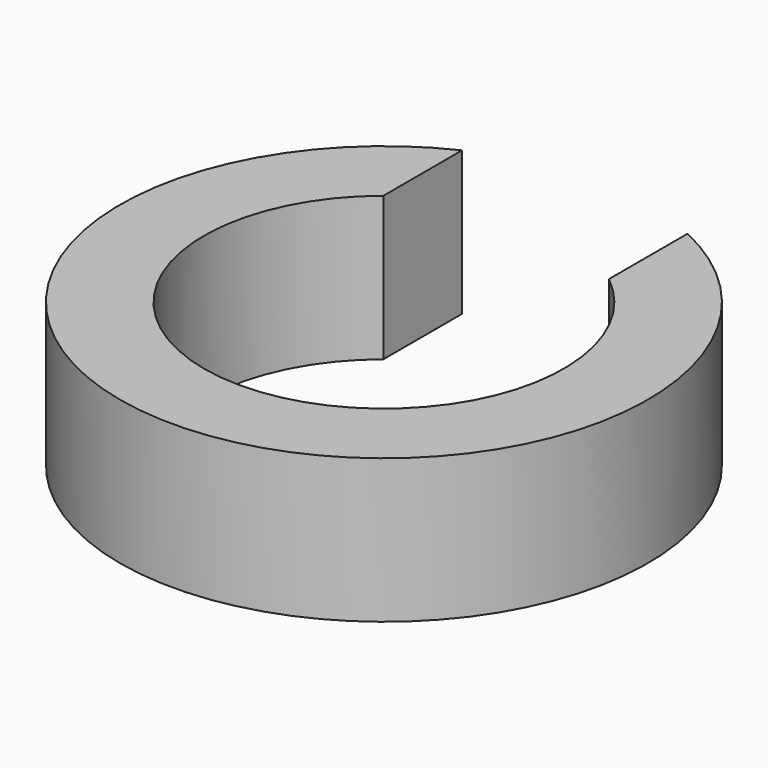
from build123d import *

# Parameters (mm, degrees)
F0_R     = 11
F0_R_2   = 7.5
F1_DEPTH = 6
F2_W     = 9.4
F2_H     = 20.224782
F3_DEPTH = 25


with BuildPart() as f1:
    # F0 (on Top) → F1 (new body)
    with BuildSketch(Plane.XY):
        Circle(F0_R)
        Circle(F0_R_2, mode=Mode.SUBTRACT)
    extrude(amount=F1_DEPTH)

    # F2 (on Front) → F3 (cut)
    with BuildSketch(Plane.XZ):
        with Locations((0, 3.78628)):
            Rectangle(F2_W, F2_H)
    extrude(amount=-F3_DEPTH, mode=Mode.SUBTRACT)


solid = f1.part
